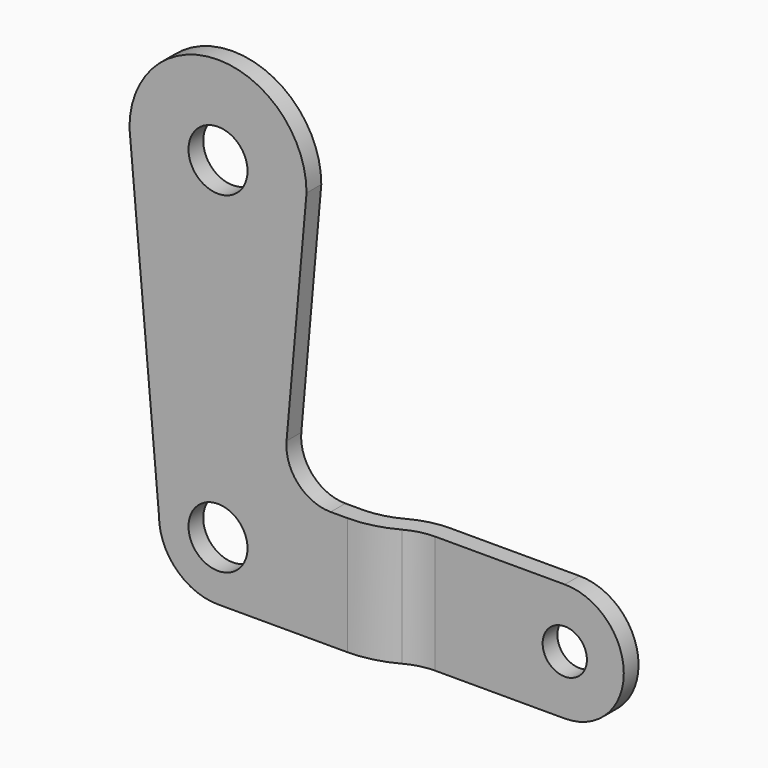
from build123d import *

# Parameters (mm, degrees)
F0_R     = 4
F0_R_2   = 3
F1_DEPTH = 2.5
F2_W     = 12
F2_H     = 2.5
F2_W_2   = 8
F3_DEPTH = 65.001


with BuildPart() as f1:
    # F0 (on Front) → F1 (new body, symmetric)
    with BuildSketch(Plane.XZ):
        with BuildLine():
            ThreePointArc((45, -8), (53, 0), (45, 8))
            Line((45, 8), (15.268102, 8))
            ThreePointArc((15.268102, 8), (10.841623, 9.949533), (9.291666, 14.531239))
            Line((9.291666, 14.531239), (12, 45))
            ThreePointArc((12, 45), (0, 57), (-12, 45))
            Line((-12, 45), (-8, 0))
            ThreePointArc((-8, 0), (-5.656854, -5.656854), (0, -8))
            Line((0, -8), (45, -8))
        make_face()
        Circle(F0_R, mode=Mode.SUBTRACT)
        with Locations((45, 0)):
            Circle(F0_R_2, mode=Mode.SUBTRACT)
        with Locations((0, 45)):
            Circle(F0_R, mode=Mode.SUBTRACT)
    extrude(amount=F1_DEPTH, both=True)

    # F2 (on face) → F3 (cut, through all)
    with BuildSketch(Plane(origin=(0, 0, -8), x_dir=(1, 0, 0), z_dir=(0, 0, -1))):
        with Locations((-6, -1.25)):
            Rectangle(F2_W, F2_H)
        with BuildLine():
            Line((17.572512, 0), (0, 0))
            Line((0, 0), (0, -2.5))
            Line((0, -2.5), (27.427488, -2.5))
            ThreePointArc((27.427488, -2.5), (24.885705, -2.182628), (22.5, -1.25))
            ThreePointArc((22.5, -1.25), (20.114295, -0.317372), (17.572512, 0))
        make_face()
        with Locations((49, 1.25)):
            Rectangle(F2_W_2, F2_H)
        with BuildLine():
            Line((45, 2.5), (17.572512, 2.5))
            ThreePointArc((17.572512, 2.5), (20.729021, 2.105872), (23.691705, 0.94769))
            ThreePointArc((23.691705, 0.94769), (25.500431, 0.240616), (27.427488, 0))
            Line((27.427488, 0), (45, 0))
            Line((45, 0), (45, 2.5))
        make_face()
    extrude(amount=-F3_DEPTH, mode=Mode.SUBTRACT)


solid = f1.part
